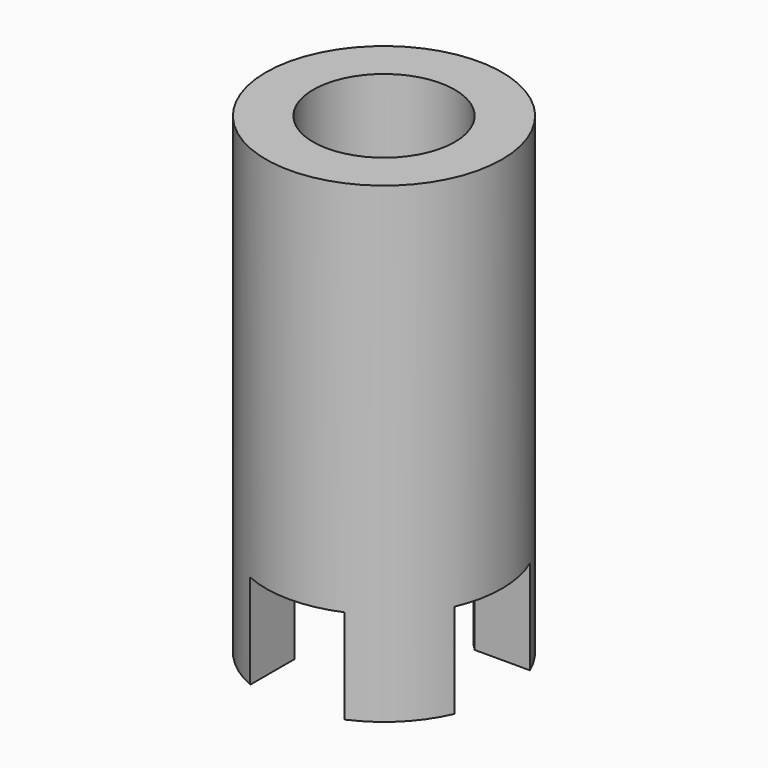
from build123d import *

# Parameters (mm, degrees)
F0_R     = 50
F0_R_2   = 30
F1_DEPTH = 200
F2_W     = 40
F2_H     = 80
F3_DEPTH = 4950
F4_W     = 40
F4_H     = 80
F5_DEPTH = 2839


with BuildPart() as f1:
    # F0 (on Top) → F1 (new body)
    with BuildSketch(Plane.XY):
        Circle(F0_R)
        Circle(F0_R_2, mode=Mode.SUBTRACT)
    extrude(amount=F1_DEPTH)

    # F2 (on Front) → F3 (cut, symmetric)
    with BuildSketch(Plane.XZ):
        Rectangle(F2_W, F2_H)
    extrude(amount=F3_DEPTH, both=True, mode=Mode.SUBTRACT)

    # F4 (on Right) → F5 (cut, symmetric)
    with BuildSketch(Plane.YZ):
        Rectangle(F4_W, F4_H)
    extrude(amount=F5_DEPTH, both=True, mode=Mode.SUBTRACT)


solid = f1.part
